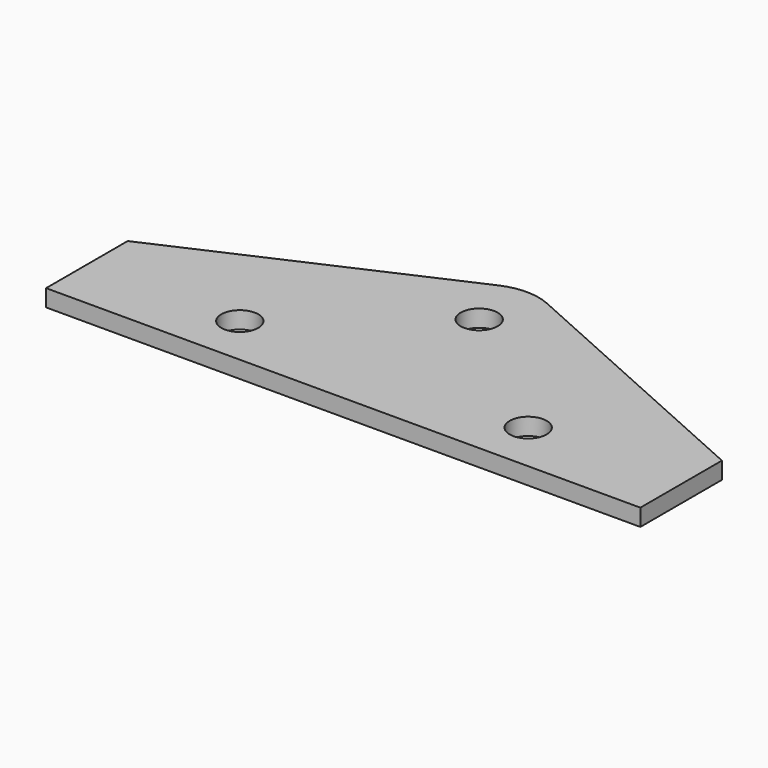
from build123d import *

# Parameters (mm, degrees)
F0_R     = 1.7272
F1_DEPTH = 1.5875


with BuildPart() as f1:
    # F0 (on Top) → F1 (new body)
    with BuildSketch(Plane.XY):
        with BuildLine():
            Line((0, 0), (0, -9.525))
            Line((0, -9.525), (55.515764, -9.525))
            Line((55.515764, -9.525), (55.515764, 0))
            Line((55.515764, 0), (30.030001, 11.420443))
            ThreePointArc((30.030001, 11.420443), (27.757882, 11.90625), (25.485763, 11.420443))
            Line((25.485763, 11.420443), (0, 0))
        make_face()
        with Locations((14.2875, -4.7625)):
            Circle(F0_R, mode=Mode.SUBTRACT)
        with Locations((41.228264, -4.7625)):
            Circle(F0_R, mode=Mode.SUBTRACT)
        with Locations((27.757882, 6.35)):
            Circle(F0_R, mode=Mode.SUBTRACT)
    extrude(amount=F1_DEPTH)


solid = f1.part
